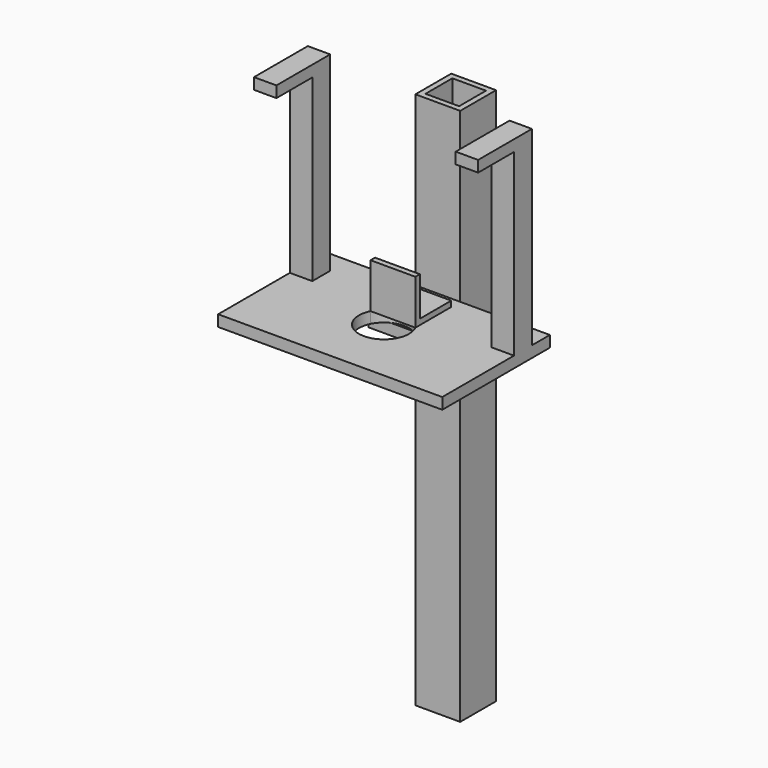
from build123d import *

# Parameters (mm, degrees)
F0_W      = 254
F0_H      = 152.4
F1_DEPTH  = 12.7
F2_W      = 50.8
F2_H      = 50.8
F3_DEPTH  = 6.35
F4_W      = 50.8
F4_H      = 6.35
F5_DEPTH  = 44.45
F7_DEPTH  = 25.4
F9_DEPTH  = 12.7
F10_W     = 76.2
F10_H     = 12.7
F11_DEPTH = 38.1
F13_DEPTH = 50.8
F14_W     = 38.1
F14_H     = 38.1
F15_DEPTH = 647.7
F16_W     = 25.4
F16_H     = 25.4
F17_DEPTH = 203.2
F18_W     = 25.4
F18_H     = 76.2
F19_DEPTH = 12.7
F20_W     = 25.4
F20_H     = 76.2
F21_DEPTH = 12.7


with BuildPart() as f1:
    # F0 (on Top) → F1 (new body)
    with BuildSketch(Plane.XY):
        with Locations((130.337225, 76.2)):
            Rectangle(F0_W, F0_H)
    extrude(amount=F1_DEPTH)

    # F2 (on face) → F3 (join)
    with BuildSketch(Plane.XY.offset(12.7)):
        with Locations((130.337225, 114.3)):
            Rectangle(F2_W, F2_H)
    extrude(amount=F3_DEPTH)

    # F4 (on face) → F5 (join)
    with BuildSketch(Plane.XY.offset(19.05)):
        with Locations((130.337225, 92.075)):
            Rectangle(F4_W, F4_H)
    extrude(amount=F5_DEPTH)

    # F6 (on face) → F7 (cut)
    with BuildSketch(Plane.XY.offset(12.7)):
        with BuildLine():
            ThreePointArc((158.735288, 76.2), (157.975611, 82.724538), (155.737225, 88.9))
            Line((155.737225, 88.9), (104.937225, 88.9))
            ThreePointArc((104.937225, 88.9), (123.812687, 48.561614), (158.735288, 76.2))
        make_face()
        with BuildLine():
            Line((104.937225, 88.9), (155.737225, 88.9))
            ThreePointArc((155.737225, 88.9), (130.337225, 104.598063), (104.937225, 88.9))
        make_face()
    extrude(amount=-F7_DEPTH, mode=Mode.SUBTRACT)

    # F8 (on face) → F9 (join)
    with BuildSketch(Plane(origin=(0, 0, 0), x_dir=(1, 0, 0), z_dir=(0, 0, -1))):
        Polygon((92.237225, -152.4), (130.337225, -152.4), (168.437225, -152.4), (168.437225, -101.6), (92.237225, -101.6), align=None)
    extrude(amount=F9_DEPTH)

    # F10 (on face) → F11 (join)
    with BuildSketch(Plane(origin=(0, 0, -12.7), x_dir=(1, 0, 0), z_dir=(0, 0, -1))):
        with Locations((130.337225, -146.05)):
            Rectangle(F10_W, F10_H)
    extrude(amount=F11_DEPTH)

    # F12 (on face) → F13 (join)
    with BuildSketch(Plane(origin=(0, 152.4, 0), x_dir=(-1, 0, 0), z_dir=(0, 1, 0))):
        Polygon((-104.937225, 203.2), (-130.337225, 203.2), (-155.737225, 203.2), (-155.737225, -406.4), (-104.937225, -406.4), align=None)
    extrude(amount=F13_DEPTH)

    # F14 (on face) → F15 (cut)
    with BuildSketch(Plane(origin=(0, 0, -406.4), x_dir=(1, 0, 0), z_dir=(0, 0, -1))):
        with Locations((130.337225, -177.8)):
            Rectangle(F14_W, F14_H)
    extrude(amount=-F15_DEPTH, mode=Mode.SUBTRACT)

    # F16 (on face) → F17 (join)
    with BuildSketch(Plane.XY.offset(12.7)):
        with Locations((16.037225, 114.3)):
            Rectangle(F16_W, F16_H)
        with Locations((244.637225, 114.3)):
            Rectangle(F16_W, F16_H)
    extrude(amount=F17_DEPTH)

    # F18 (on face) → F19 (join)
    with BuildSketch(Plane.XY.offset(215.9)):
        with Locations((244.637225, 88.9)):
            Rectangle(F18_W, F18_H)
    extrude(amount=F19_DEPTH)

    # F20 (on face) → F21 (join)
    with BuildSketch(Plane.XY.offset(215.9)):
        with Locations((16.037225, 88.9)):
            Rectangle(F20_W, F20_H)
    extrude(amount=F21_DEPTH)


solid = f1.part
